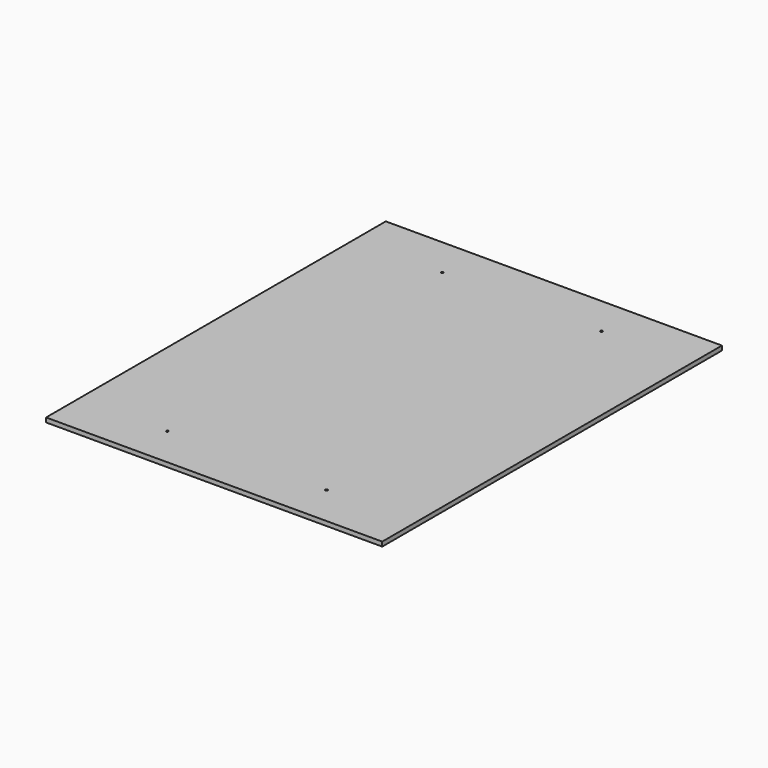
from build123d import *

# Parameters (mm, degrees)
F0_W     = 965.2
F0_H     = 1219.2
F1_DEPTH = 12.7
F2_R     = 3.175
F3_DEPTH = 25.4
F4_R     = 3.175
F5_DEPTH = 25.4


with BuildPart() as f1:
    # F0 (on Top) → F1 (new body)
    with BuildSketch(Plane.XY):
        Rectangle(F0_W, F0_H)
    extrude(amount=F1_DEPTH)

    # F2 (on Top) → F3 (cut)
    with BuildSketch(Plane.XY):
        with Locations((-228.6, -492.125)):
            Circle(F2_R)
        with Locations((228.6, -492.125)):
            Circle(F2_R)
    extrude(amount=F3_DEPTH, mode=Mode.SUBTRACT)

    # F4 (on Top) → F5 (cut)
    with BuildSketch(Plane.XY):
        with Locations((-228.6, 495.3)):
            Circle(F4_R)
        with Locations((228.6, 495.3)):
            Circle(F4_R)
    extrude(amount=F5_DEPTH, mode=Mode.SUBTRACT)


solid = f1.part
